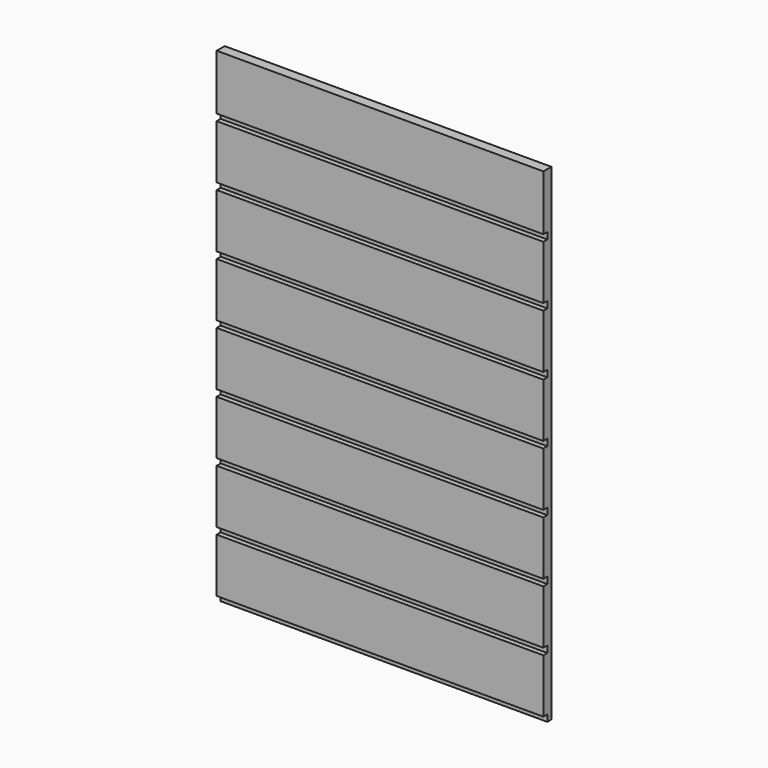
from build123d import *

# Parameters (mm, degrees)
F0_W     = 622.3
F0_H     = 927.1
F1_DEPTH = 19.05
F2_W     = 9.525
F2_H     = 12.7
F3_DEPTH = 622.3


with BuildPart() as f1:
    # F0 (on Front) → F1 (new body)
    with BuildSketch(Plane.XZ):
        with Locations((311.15, -463.55)):
            Rectangle(F0_W, F0_H)
    extrude(amount=F1_DEPTH)

    # F2 (on face) → F3 (cut)
    with BuildSketch(Plane(origin=(0, 0, 0), x_dir=(0, -1, 0), z_dir=(-1, 0, 0))):
        with Locations((14.2875, -111.76)):
            Rectangle(F2_W, F2_H)
        with Locations((14.2875, -227.33)):
            Rectangle(F2_W, F2_H)
        with Locations((14.2875, -342.9)):
            Rectangle(F2_W, F2_H)
        with Locations((14.2875, -458.47)):
            Rectangle(F2_W, F2_H)
        with Locations((14.2875, -574.04)):
            Rectangle(F2_W, F2_H)
        with Locations((14.2875, -689.61)):
            Rectangle(F2_W, F2_H)
        with Locations((14.2875, -805.18)):
            Rectangle(F2_W, F2_H)
        with Locations((14.2875, -920.75)):
            Rectangle(F2_W, F2_H)
    extrude(amount=-F3_DEPTH, mode=Mode.SUBTRACT)


solid = f1.part
